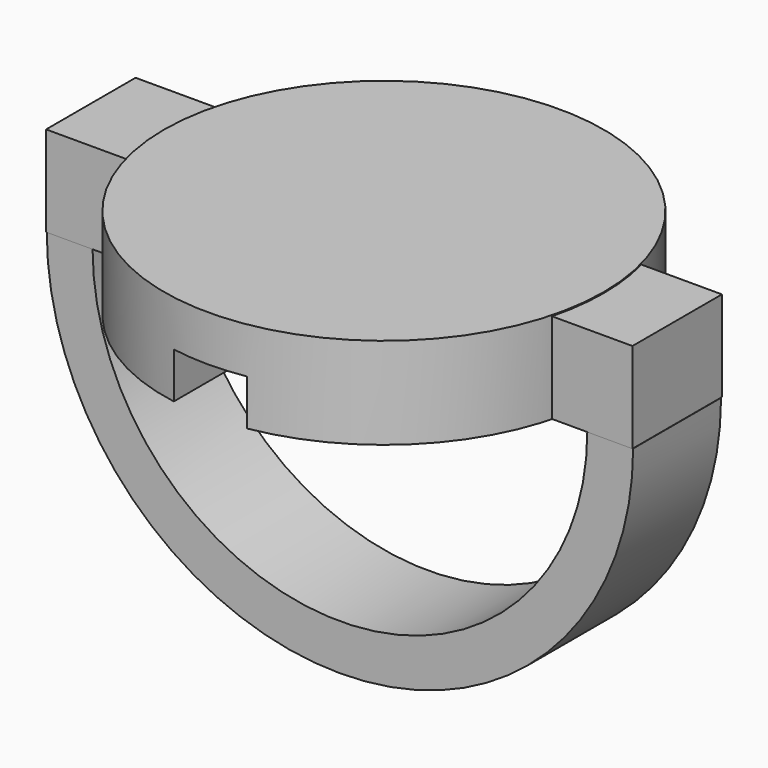
from build123d import *

# Parameters (mm, degrees)
SKETCH002_W  = 6.103832
SKETCH002_H  = 4.93409
PAD_DEPTH    = 16
SKETCH001_R  = 12
PAD001_DEPTH = 5
SKETCH_R     = 6
POCKET_DEPTH = 2.5
BOX_W        = 4
BOX_H        = 10
BOX_DEPTH    = 2.6
PAD002_DEPTH = 3


with BuildPart() as body:
    # Sketch002 → Pad (new body, symmetric)
    with BuildSketch(Plane.YZ):
        with Locations((0.006563, 2.478979)):
            Rectangle(SKETCH002_W, SKETCH002_H)
    extrude(amount=PAD_DEPTH, both=True)

    # Sketch001 → Pad001 (join)
    with BuildSketch(Plane.XY):
        Circle(SKETCH001_R)
    extrude(amount=PAD001_DEPTH)

    # Sketch → Pocket (cut, symmetric)
    with BuildSketch(Plane.XY):
        Circle(SKETCH_R)
    extrude(amount=POCKET_DEPTH, both=True, mode=Mode.SUBTRACT)

    # Box → Box (cut)
    with BuildSketch(Plane(origin=(-2, -15, -0.1), x_dir=(1, 0, 0), z_dir=(0, 0, 1))):
        with Locations((2, 5)):
            Rectangle(BOX_W, BOX_H)
    extrude(amount=BOX_DEPTH, mode=Mode.SUBTRACT)


with BuildPart() as body001:
    # Sketch003 (on Sketch) → Pad002 (new body, symmetric)
    with BuildSketch(Plane.XZ):
        with BuildLine():
            ThreePointArc((-13.5, 0), (0, -13.5), (13.5, 0))
            Line((13.5, 0), (16, 0))
            ThreePointArc((-16, 0), (0, -16), (16, 0))
            Line((-16, 0), (-13.5, 0))
        make_face()
    extrude(amount=PAD002_DEPTH, both=True)


solid = Compound([body.part, body001.part])
